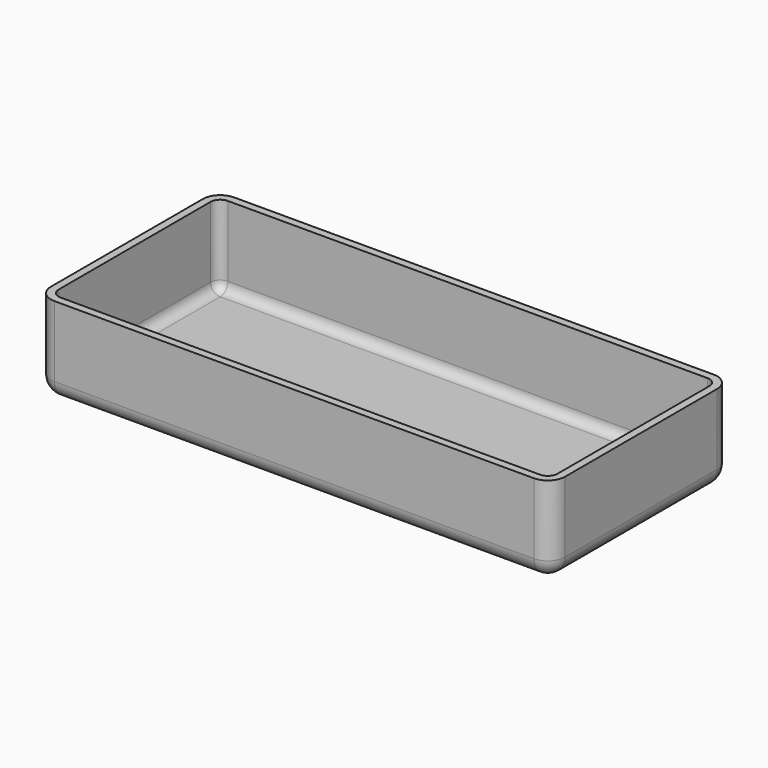
from build123d import *

# Parameters (mm, degrees)
F0_W     = 77
F0_H     = 65
F0_R     = 9.5
F0_R_2   = 3
F0_W_2   = 0.5
F1_DEPTH = 25
F2_R     = 3
F3_T     = 2.4
F4_DEPTH = 2.4
F5_W     = 2.4
F5_H     = 69.8
F6_DEPTH = 27.078461


with BuildPart() as f1:
    # F0 (on Top) → F1 (new body)
    with BuildSketch(Plane.XY):
        with Locations((-42.871317, 11.163915)):
            Rectangle(F0_W, F0_H)
        with Locations((-65.871317, -6.405085)):
            Circle(F0_R, mode=Mode.SUBTRACT)
        with Locations((-44.871317, -6.405085)):
            Circle(F0_R, mode=Mode.SUBTRACT)
        with Locations((-29.871317, -6.405085)):
            Circle(F0_R_2, mode=Mode.SUBTRACT)
        with Locations((-14.871317, -6.405085)):
            Circle(F0_R, mode=Mode.SUBTRACT)
        with Locations((-65.871317, -6.405085)):
            Circle(F0_R)
        with Locations((-44.871317, -6.405085)):
            Circle(F0_R)
        with Locations((-29.871317, -6.405085)):
            Circle(F0_R_2)
        with Locations((-14.871317, -6.405085)):
            Circle(F0_R)
        with Locations((-4.121317, 11.163915)):
            Rectangle(F0_W_2, F0_H)
    extrude(amount=F1_DEPTH)

    # F2
    f2_edges = [f1.edges().sort_by_distance(p)[0] for p in [
        (-81.371317, -21.336085, 12.5),
        (-81.371317, 43.663915, 12.5),
        (-42.621317, 43.663915, 0),
        (-81.371317, 11.163915, 0),
        (-42.621317, -21.336085, 0),
    ]]
    fillet(f2_edges, radius=F2_R)

    # F3
    f3_openings = [f1.faces().sort_by_distance(p)[0] for p in [
        (-42.592095, 11.163915, 25),
    ]]
    offset(amount=F3_T, openings=f3_openings)

    # F0 (on Top) → F4 (cut, through all)
    with BuildSketch(Plane.XY):
        with Locations((-14.871317, -6.405085)):
            Circle(F0_R)
        with Locations((-29.871317, -6.405085)):
            Circle(F0_R_2)
        with Locations((-44.871317, -6.405085)):
            Circle(F0_R)
        with Locations((-65.871317, -6.405085)):
            Circle(F0_R)
    extrude(amount=-F4_DEPTH, mode=Mode.SUBTRACT)

    # F5 (on face) → F6 (cut, through all)
    with BuildSketch(Plane.XY.offset(25)):
        with Locations((-2.671317, 11.163915)):
            Rectangle(F5_W, F5_H)
    extrude(amount=-F6_DEPTH, mode=Mode.SUBTRACT)

    # F7: F1 across face


with BuildPart() as f1_1:
    add(f1.part)
    add(f1.part.mirror(Plane(origin=(-3.871317, 11.163915, 5.251674), x_dir=(0, 1, 0), z_dir=(1, 0, 0))))


solid = f1_1.part
